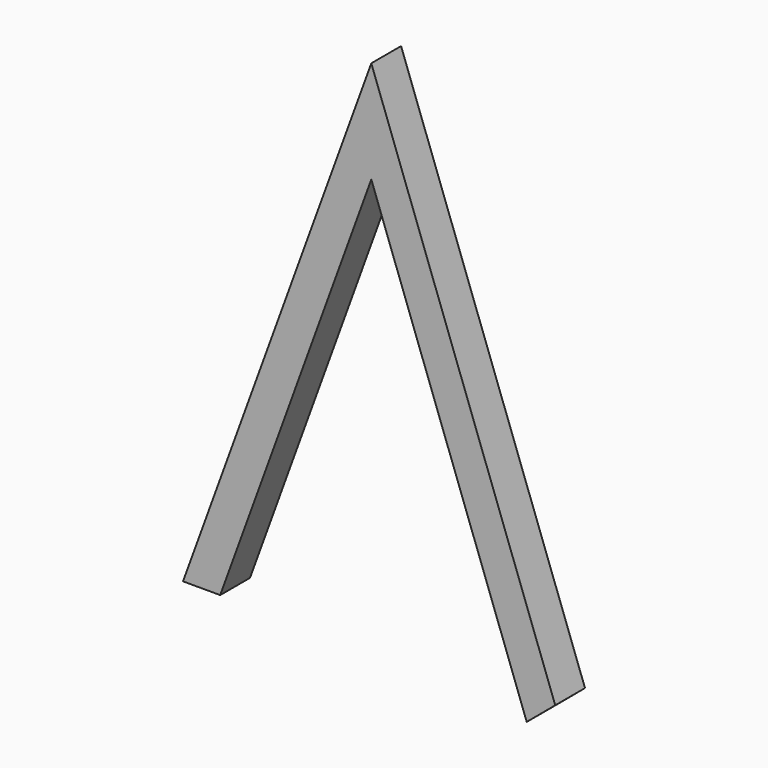
from build123d import *

# Parameters (mm, degrees)
F0_W = 300
F0_H = 300


with BuildPart() as f2:
    # F2: sweep along a path in F1
    with BuildLine(Plane.XZ) as f2_path:
        Line((0, 0), (1368.0805733027, 3758.7704831436))
        Line((1368.0805733027, 3758.7704831436), (2736.1611466053, 0))
    # F0 (on Top) → F2 (sweep)
    with BuildSketch(Plane.XY):
        Rectangle(F0_W, F0_H)
    sweep(path=f2_path.line, transition=Transition.RIGHT)


solid = f2.part
